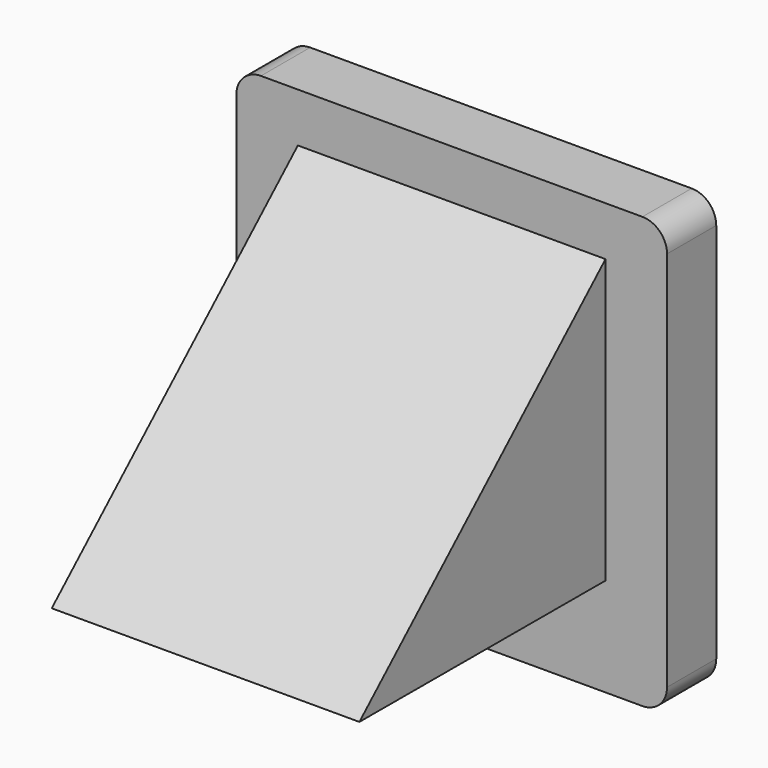
from build123d import *

# Parameters (mm, degrees)
F1_DEPTH = 5
F2_DEPTH = 2
F3_R     = 2
F4_R     = 0.5
F6_DEPTH = 12.5


with BuildPart() as f1:
    # F0 (on Front) → F1 (new body)
    with BuildSketch(Plane.XZ):
        with BuildLine():
            ThreePointArc((17.5, 3), (0, 4), (-17.5, 3))
            Line((-17.5, 3), (-17.5, 0))
            Line((-17.5, 0), (17.5, 0))
            Line((17.5, 0), (17.5, 3))
        make_face()
        with BuildLine():
            Line((17.5, 35), (-17.5, 35))
            Line((-17.5, 35), (-17.5, 3))
            ThreePointArc((-17.5, 3), (0, 4), (17.5, 3))
            Line((17.5, 3), (17.5, 35))
        make_face()
        Polygon((5.656854, 17.5), (0, 11.843146), (-5.656854, 17.5), (0, 23.156854), align=None, mode=Mode.SUBTRACT)
        Polygon((-5.656854, 17.5), (0, 11.843146), (5.656854, 17.5), (0, 23.156854), align=None)
    extrude(amount=F1_DEPTH)

    # F0 (on Front) → F2 (cut)
    with BuildSketch(Plane.XZ):
        Polygon((-5.656854, 17.5), (0, 11.843146), (5.656854, 17.5), (0, 23.156854), align=None)
    extrude(amount=F2_DEPTH, mode=Mode.SUBTRACT)

    # F3
    f3_edges = [f1.edges().sort_by_distance(p)[0] for p in [
        (-17.5, -2.5, 35),
        (17.5, -2.5, 35),
        (-17.5, -2.5, 0),
        (17.5, -2.5, 0),
    ]]
    fillet(f3_edges, radius=F3_R)

    # F4
    f4_edges = [f1.edges().sort_by_distance(p)[0] for p in [
        (5.656854, -1, 17.5),
        (0, -1, 23.156854),
        (-5.656854, -1, 17.5),
        (0, -1, 11.843146),
    ]]
    fillet(f4_edges, radius=F4_R)


with BuildPart() as f6:
    # F5 (on Right) → F6 (new body, symmetric)
    with BuildSketch(Plane.YZ):
        Polygon((-30, 8.053076), (-5, 8), (-5, 31), align=None)
    extrude(amount=F6_DEPTH, both=True)


solid = Compound([f1.part, f6.part])
